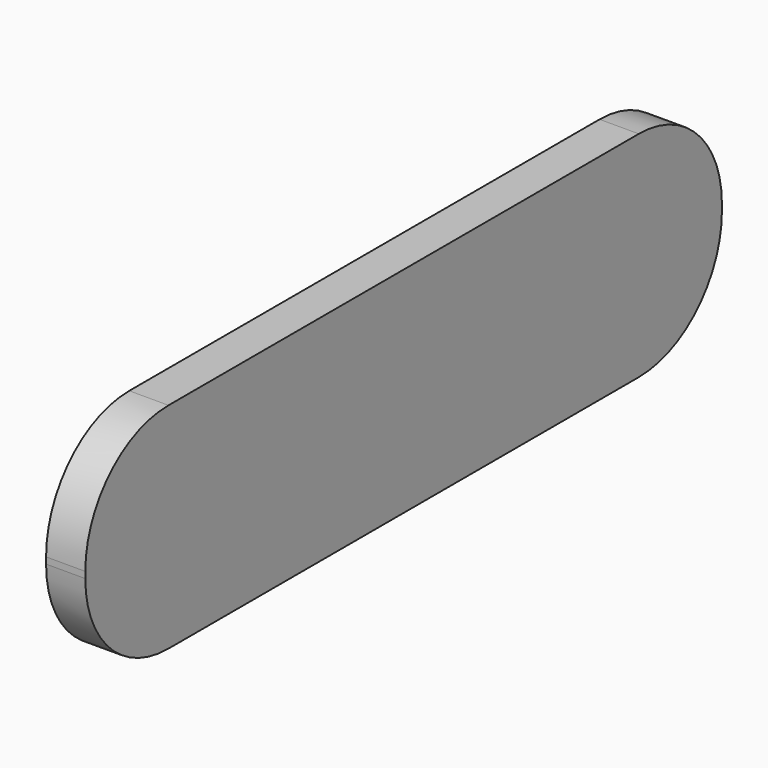
from build123d import *

# Parameters (mm, degrees)
F0_W          = 6.714124
F0_H          = 36.647938
F1_DEPTH      = 69.85
F1_DEPTH_BACK = 66.294
F2_R          = 17.783097
F3_R          = 17.78
F4_R          = 17.78


with BuildPart() as f1:
    # F0 (on Front) → F1 (new body, two sides)
    with BuildSketch(Plane.XZ) as f1_sk:
        Rectangle(F0_W, F0_H)
    extrude(amount=F1_DEPTH)
    extrude(f1_sk.sketch, amount=-F1_DEPTH_BACK)

    # F2
    f2_edges = [f1.edges().sort_by_distance(p)[0] for p in [
        (0, -69.85, 18.323969),
    ]]
    fillet(f2_edges, radius=F2_R)

    # F3
    f3_edges = [f1.edges().sort_by_distance(p)[0] for p in [
        (0, -69.85, -18.323969),
    ]]
    fillet(f3_edges, radius=F3_R)

    # F4
    f4_edges = [f1.edges().sort_by_distance(p)[0] for p in [
        (0, 66.294, -18.323969),
        (0, 66.294, 18.323969),
    ]]
    fillet(f4_edges, radius=F4_R)


solid = f1.part
